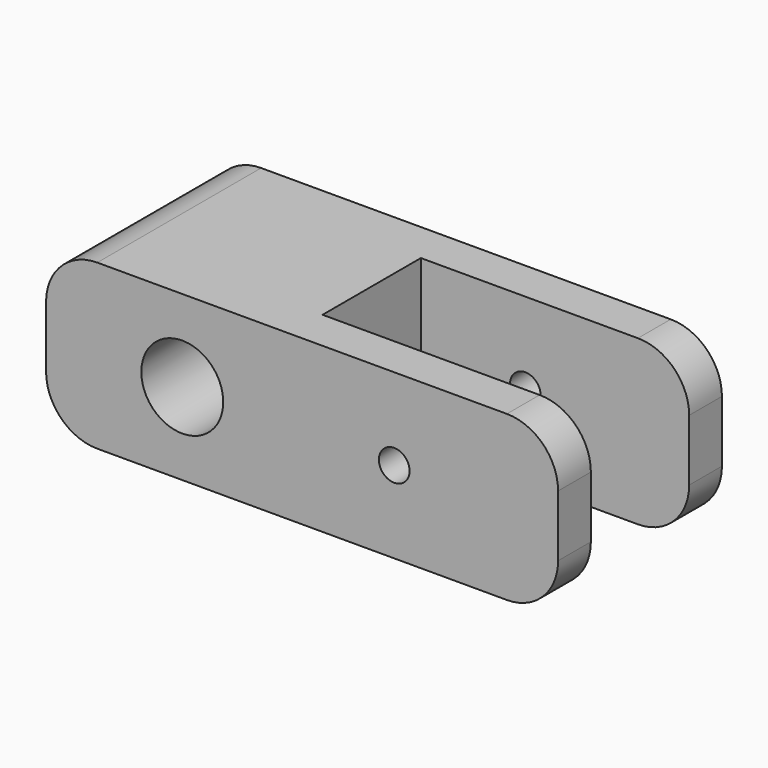
from build123d import *

# Parameters (mm, degrees)
F0_W      = 50
F0_H      = 16
F2_DEPTH  = 20
F3_D      = 8
F3_DEPTH  = 20
F5_D      = 3
F5_DEPTH  = 20
F7_DEPTH  = 26.2
F8_R      = 5
F10_DEPTH = 1


with BuildPart() as f2:
    # F0 (on Front) → F2 (new body)
    with BuildSketch(Plane.XZ):
        Rectangle(F0_W, F0_H)
    extrude(amount=F2_DEPTH)

    # F3
    with Locations(Plane(origin=(0, 0, 0), x_dir=(1, 0, 0), z_dir=(0, 1, 0))):
        with Locations((-11.699282, 0)):
            Hole(F3_D / 2, depth=F3_DEPTH)

    # F5
    with Locations(Plane.XZ.offset(20)):
        with Locations((9, 0)):
            Hole(F5_D / 2, depth=F5_DEPTH)

    # F6 (on face) → F7 (cut)
    with BuildSketch(Plane.YZ.offset(25)):
        Polygon((-16, 8), (-16, 0), (-16, -8), (-4, -8), (-4, 0), (-4, 8), align=None)
    extrude(amount=-F7_DEPTH, mode=Mode.SUBTRACT)

    # F8
    f8_edges = [f2.edges().sort_by_distance(p)[0] for p in [
        (25, -18, 8),
        (25, -2, 8),
        (25, -2, -8),
        (25, -18, -8),
        (-25, -10, -8),
        (-25, -10, 8),
    ]]
    fillet(f8_edges, radius=F8_R)

    # F9 (on Front) → F10 (cut)
    with BuildSketch(Plane.XZ):
        Polygon((11.143559, -3.499542), (13.194126, -0.052143), (11.233874, 3.447399), (7.223055, 3.499542), (5.172489, 0.052143), (7.132741, -3.447399), align=None)
    extrude(amount=F10_DEPTH, mode=Mode.SUBTRACT)


solid = f2.part
